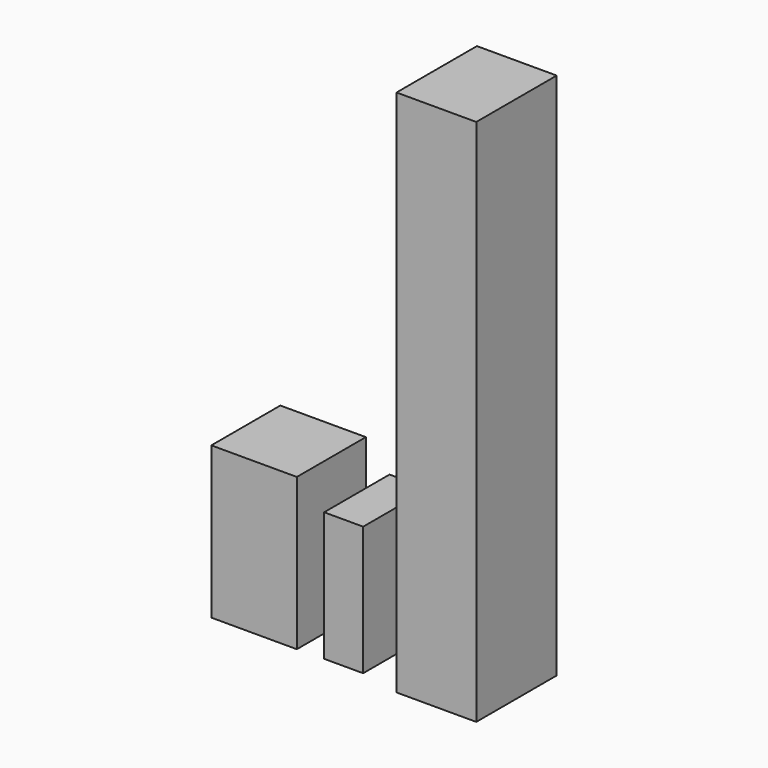
from build123d import *

# Parameters (mm, degrees)
F0_W     = 49.349517
F0_H     = 49.780123
F1_DEPTH = 87.525131
F0_W_2   = 22.520151
F0_H_2   = 47.141827
F2_DEPTH = 74.460989
F0_W_3   = 46.029139
F0_H_3   = 57.993904
F3_DEPTH = 304.8


with BuildPart() as f1:
    # F0 (on Top) → F1 (new body)
    with BuildSketch(Plane.XY):
        with Locations((-96.527152, 97.875129)):
            Rectangle(F0_W, F0_H)
    extrude(amount=F1_DEPTH)


with BuildPart() as f2:
    # F0 (on Top) → F2 (new body)
    with BuildSketch(Plane.XY):
        with Locations((-45.131778, 96.918996)):
            Rectangle(F0_W_2, F0_H_2)
    extrude(amount=F2_DEPTH)


with BuildPart() as f3:
    # F0 (on Top) → F3 (new body)
    with BuildSketch(Plane.XY):
        with Locations((12.588044, 97.098537)):
            Rectangle(F0_W_3, F0_H_3)
    extrude(amount=F3_DEPTH)


solid = Compound([f1.part, f2.part, f3.part])
